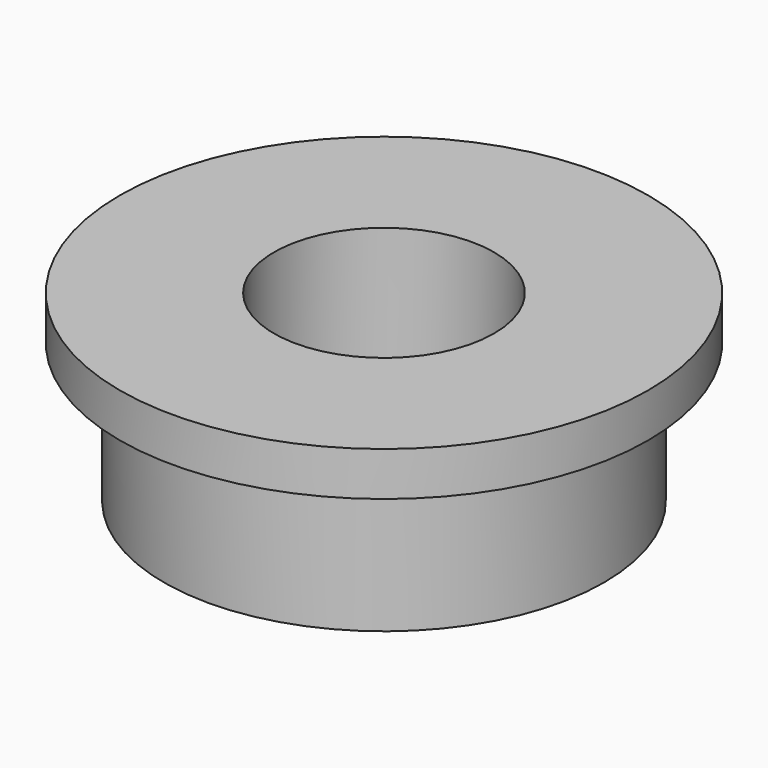
from build123d import *

# Parameters (mm, degrees)
SKETCH_R      = 3
SKETCH_R_2    = 1.5
PAD_DEPTH     = 2.5
SKETCH001_R   = 3.6
SKETCH001_R_2 = 3
PAD001_DEPTH  = 0.6


with BuildPart() as part:
    # Sketch → Pad (new body)
    with BuildSketch(Plane.XY):
        Circle(SKETCH_R)
        Circle(SKETCH_R_2, mode=Mode.SUBTRACT)
    extrude(amount=PAD_DEPTH)

    # Sketch001 (on Face4 of Pad) → Pad001 (join)
    with BuildSketch(Plane.XY.offset(2.5)):
        Circle(SKETCH001_R)
        Circle(SKETCH001_R_2, mode=Mode.SUBTRACT)
    extrude(amount=-PAD001_DEPTH)


solid = part.part
